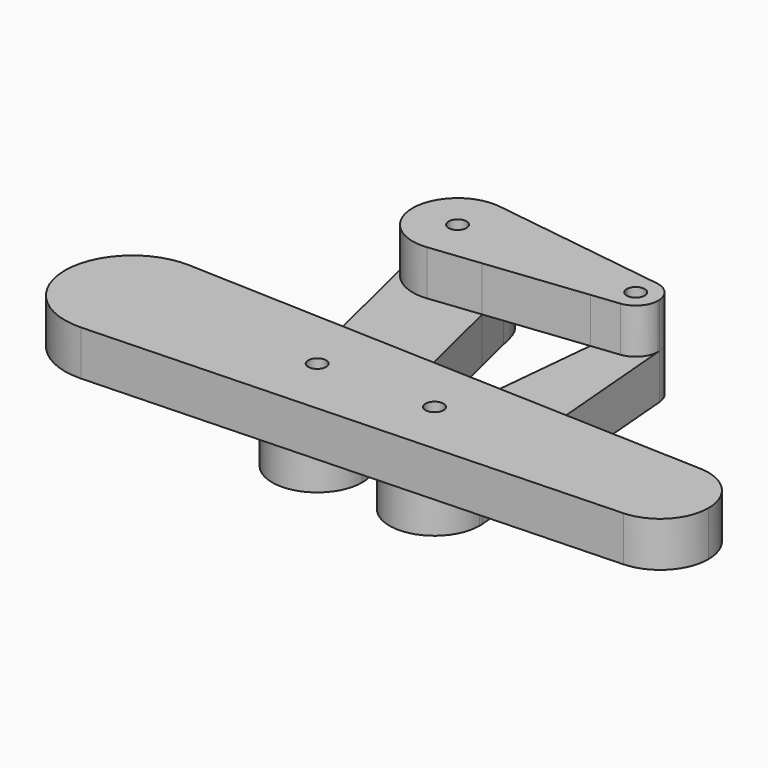
from build123d import *

# Parameters (mm, degrees)
F1_DEPTH = 5
F0_R     = 1
F2_DEPTH = 5


with BuildPart() as f1:
    # F0 (on Top) → F1 (new body)
    with BuildSketch(Plane.XY):
        with BuildLine():
            ThreePointArc((-15.854500332, 23.0355131938), (-12.7077701873, 24.6473721814), (-11.4138670862, 27.9376327737))
            ThreePointArc((-11.4138670862, 27.9376327737), (-11.4135349787, 27.9709033455), (-11.4134242746, 28.0041753906))
            ThreePointArc((-11.4134242746, 28.0041753906), (-11.4488005891, 28.5979023154), (-11.5544289391, 29.1832276921))
            ThreePointArc((-11.5544289391, 29.1832276921), (-13.057928846, 31.7110137238), (-15.72245892, 32.9562019333))
            ThreePointArc((-15.72245892, 32.9562019333), (-20.1202626078, 31.3596708193), (-21.2724196101, 26.8251230892))
            ThreePointArc((-21.2724196101, 26.8251230892), (-19.279246894, 23.9069738196), (-15.854500332, 23.0355131938))
        make_face()
        with BuildLine():
            ThreePointArc((-15.4134242746, 28.0041753906), (-15.4134464154, 27.9975209816), (-15.4135128369, 27.9908668673))
            ThreePointArc((-15.4135128369, 27.9908668673), (-17.4134021338, 28.0108297997), (-15.4134242746, 28.0041753906))
        make_face(mode=Mode.SUBTRACT)
        with BuildLine():
            Line((-11.5544289391, 29.1832276921), (-11.2516570719, 27.9354738067))
            Line((-11.2516570719, 27.9354738067), (1.0763007318, 27.7713923605))
            Line((1.0763007318, 27.7713923605), (1.0964932824, 27.9794741519))
            ThreePointArc((1.0964932824, 27.9794741519), (2.036829904, 29.7011082607), (3.9302871563, 30.2140181942))
            Line((3.9302871563, 30.2140181942), (-15.72245892, 32.9562019333))
            ThreePointArc((-15.72245892, 32.9562019333), (-13.057928846, 31.7110137238), (-11.5544289391, 29.1832276921))
        make_face()
        with BuildLine():
            ThreePointArc((1.0964932824, 27.9794741519), (1.0885880353, 27.875494799), (1.0850258848, 27.7712762313))
            ThreePointArc((1.0850258848, 27.7712762313), (1.9064028744, 25.8851778792), (3.8642664503, 25.2536738244))
            ThreePointArc((3.8642664503, 25.2536738244), (5.4487592704, 26.0719699485), (6.084804479, 27.7380049229))
            ThreePointArc((6.084804479, 27.7380049229), (6.0826053348, 27.842842344), (6.0760117711, 27.9474953231))
            ThreePointArc((6.0760117711, 27.9474953231), (5.400288981, 29.4567300385), (3.9302871563, 30.2140181942))
            ThreePointArc((3.9302871563, 30.2140181942), (2.036829904, 29.7011082607), (1.0964932824, 27.9794741519))
        make_face()
        with BuildLine():
            ThreePointArc((4.584804479, 27.7380049229), (3.57815007, 26.7380270637), (2.5848930414, 27.7513134463))
            ThreePointArc((2.5848930414, 27.7513134463), (3.5914588881, 28.737982782), (4.584804479, 27.7380049229))
        make_face(mode=Mode.SUBTRACT)
        with BuildLine():
            Line((1.0850258848, 27.7712762313), (1.0763007318, 27.7713923605))
            Line((1.0763007318, 27.7713923605), (0.7985114663, 24.9088075818))
            Line((0.7985114663, 24.9088075818), (3.8642664503, 25.2536738244))
            ThreePointArc((3.8642664503, 25.2536738244), (1.9064028744, 25.8851778792), (1.0850258848, 27.7712762313))
        make_face()
        Polygon((1.0763007318, 27.7713923605), (-11.2516570719, 27.9354738067), (-10.2165579676, 23.6697243455), (0.7985114663, 24.9088075818), align=None)
        with BuildLine():
            Line((-11.2516570719, 27.9354738067), (-11.4138670862, 27.9376327737))
            ThreePointArc((-11.4138670862, 27.9376327737), (-12.7077701873, 24.6473721814), (-15.854500332, 23.0355131938))
            Line((-15.854500332, 23.0355131938), (-10.2165579676, 23.6697243455))
            Line((-10.2165579676, 23.6697243455), (-11.2516570719, 27.9354738067))
        make_face()
        with BuildLine():
            ThreePointArc((-11.4134242746, 28.0041753906), (-11.4135349787, 27.9709033455), (-11.4138670862, 27.9376327737))
            Line((-11.4138670862, 27.9376327737), (-11.2516570719, 27.9354738067))
            Line((-11.2516570719, 27.9354738067), (-11.5544289391, 29.1832276921))
            ThreePointArc((-11.5544289391, 29.1832276921), (-11.4488005891, 28.5979023154), (-11.4134242746, 28.0041753906))
        make_face()
        with BuildLine():
            Line((1.0964932824, 27.9794741519), (1.0763007318, 27.7713923605))
            Line((1.0763007318, 27.7713923605), (1.0850258848, 27.7712762313))
            ThreePointArc((1.0850258848, 27.7712762313), (1.0885880353, 27.875494799), (1.0964932824, 27.9794741519))
        make_face()
    extrude(amount=F1_DEPTH)


with BuildPart() as f1b:
    # F0 (on Top) → F1, piece 2 (new body)
    with BuildSketch(Plane.XY):
        with BuildLine():
            ThreePointArc((-22.6505047828, 0.0204806253), (-24.751195421, 5.2260025411), (-29.8764936936, 7.5154734821))
            ThreePointArc((-29.8764936936, 7.5154734821), (-37.6505047828, 0.0204806253), (-29.8764936936, -7.4745122315))
            ThreePointArc((-29.8764936936, -7.4745122315), (-24.751195421, -5.1850412904), (-22.6505047828, 0.0204806253))
        make_face()
        with BuildLine():
            Line((-0.9918379888, 6.4594730131), (-6.0856180335, 6.645697636))
            Line((-6.0856180335, 6.645697636), (-4.7640870192, 1.1995329267))
            ThreePointArc((-4.7640870192, 1.1995329267), (-4.6584586692, 0.6142075501), (-4.6230823547, 0.0204806253))
            ThreePointArc((-4.6230823547, 0.0204806253), (-9.0293554299, -4.9441430602), (-14.4820776902, -1.1585716761))
            Line((-14.4820776902, -1.1585716761), (-16.467914748, 7.0252663008))
            Line((-16.467914748, 7.0252663008), (-29.8764936936, 7.5154734821))
            ThreePointArc((-29.8764936936, 7.5154734821), (-24.751195421, 5.2260025411), (-22.6505047828, 0.0204806253))
            ThreePointArc((-22.6505047828, 0.0204806253), (-24.751195421, -5.1850412904), (-29.8764936936, -7.4745122315))
            Line((-29.8764936936, -7.4745122315), (28.6700100147, -5.3340977497))
            ThreePointArc((28.6700100147, -5.3340977497), (23.1160952264, 0.0204806253), (28.6700100147, 5.3750590003))
            Line((28.6700100147, 5.3750590003), (7.9103490939, 6.1340160013))
            Line((7.9103490939, 6.1340160013), (8.3892151125, 0.4394614259))
            ThreePointArc((8.3892151125, 0.4394614259), (8.4024022398, 0.2301554677), (8.4068005283, 0.0204806253))
            ThreePointArc((8.4068005283, 0.0204806253), (3.1650485547, -4.9736715533), (-1.5698218651, 0.5034190834))
            Line((-1.5698218651, 0.5034190834), (-0.9918379888, 6.4594730131))
        make_face()
        with BuildLine():
            ThreePointArc((33.8324063903, 0.0204806253), (32.3316294211, 3.7394134666), (28.6700100147, 5.3750590003))
            ThreePointArc((28.6700100147, 5.3750590003), (23.1160952264, 0.0204806253), (28.6700100147, -5.3340977497))
            ThreePointArc((28.6700100147, -5.3340977497), (32.3316294211, -3.698452216), (33.8324063903, 0.0204806253))
        make_face()
        with BuildLine():
            Line((7.9103490939, 6.1340160013), (-0.9918379888, 6.4594730131))
            Line((-0.9918379888, 6.4594730131), (-1.5698218651, 0.5034190834))
            ThreePointArc((-1.5698218651, 0.5034190834), (3.4389102287, 5.020377521), (8.3892151125, 0.4394614259))
            Line((8.3892151125, 0.4394614259), (7.9103490939, 6.1340160013))
        make_face()
        with BuildLine():
            ThreePointArc((8.3892151125, 0.4394614259), (3.4389102287, 5.020377521), (-1.5698218651, 0.5034190834))
            ThreePointArc((-1.5698218651, 0.5034190834), (3.1650485547, -4.9736715533), (8.4068005283, 0.0204806253))
            ThreePointArc((8.4068005283, 0.0204806253), (8.4024022398, 0.2301554677), (8.3892151125, 0.4394614259))
        make_face()
        with Locations((3.4068005283, 0.0204806253)):
            Circle(F0_R, mode=Mode.SUBTRACT)
        with BuildLine():
            ThreePointArc((-4.6230823547, 0.0204806253), (-4.6584586692, 0.6142075501), (-4.7640870192, 1.1995329267))
            ThreePointArc((-4.7640870192, 1.1995329267), (-10.8021346561, 4.8794759608), (-14.4820776902, -1.1585716761))
            ThreePointArc((-14.4820776902, -1.1585716761), (-9.0293554299, -4.9441430602), (-4.6230823547, 0.0204806253))
        make_face()
        with Locations((-9.6230823547, 0.0204806253)):
            Circle(F0_R, mode=Mode.SUBTRACT)
        with BuildLine():
            Line((-4.7640870192, 1.1995329267), (-6.0856180335, 6.645697636))
            Line((-6.0856180335, 6.645697636), (-16.467914748, 7.0252663008))
            Line((-16.467914748, 7.0252663008), (-14.4820776902, -1.1585716761))
            ThreePointArc((-14.4820776902, -1.1585716761), (-10.8021346561, 4.8794759608), (-4.7640870192, 1.1995329267))
        make_face()
    extrude(amount=F1_DEPTH)


with BuildPart() as f2:
    # F0 (on Top) → F2 (new body)
    with BuildSketch(Plane.XY):
        with BuildLine():
            ThreePointArc((-15.854500332, 23.0355131938), (-12.7077701873, 24.6473721814), (-11.4138670862, 27.9376327737))
            ThreePointArc((-11.4138670862, 27.9376327737), (-11.4135349787, 27.9709033455), (-11.4134242746, 28.0041753906))
            ThreePointArc((-11.4134242746, 28.0041753906), (-11.4488005891, 28.5979023154), (-11.5544289391, 29.1832276921))
            ThreePointArc((-11.5544289391, 29.1832276921), (-13.057928846, 31.7110137238), (-15.72245892, 32.9562019333))
            ThreePointArc((-15.72245892, 32.9562019333), (-20.1202626078, 31.3596708193), (-21.2724196101, 26.8251230892))
            ThreePointArc((-21.2724196101, 26.8251230892), (-19.279246894, 23.9069738196), (-15.854500332, 23.0355131938))
        make_face()
        with BuildLine():
            ThreePointArc((-15.4134242746, 28.0041753906), (-15.4134464154, 27.9975209816), (-15.4135128369, 27.9908668673))
            ThreePointArc((-15.4135128369, 27.9908668673), (-17.4134021338, 28.0108297997), (-15.4134242746, 28.0041753906))
        make_face(mode=Mode.SUBTRACT)
        with BuildLine():
            ThreePointArc((-11.4134242746, 28.0041753906), (-11.4135349787, 27.9709033455), (-11.4138670862, 27.9376327737))
            Line((-11.4138670862, 27.9376327737), (-11.2516570719, 27.9354738067))
            Line((-11.2516570719, 27.9354738067), (-11.5544289391, 29.1832276921))
            ThreePointArc((-11.5544289391, 29.1832276921), (-11.4488005891, 28.5979023154), (-11.4134242746, 28.0041753906))
        make_face()
        with BuildLine():
            Line((-11.2516570719, 27.9354738067), (-11.4138670862, 27.9376327737))
            ThreePointArc((-11.4138670862, 27.9376327737), (-12.7077701873, 24.6473721814), (-15.854500332, 23.0355131938))
            Line((-15.854500332, 23.0355131938), (-10.2165579676, 23.6697243455))
            Line((-10.2165579676, 23.6697243455), (-11.2516570719, 27.9354738067))
        make_face()
        with BuildLine():
            Line((-10.2165579676, 23.6697243455), (-15.854500332, 23.0355131938))
            ThreePointArc((-15.854500332, 23.0355131938), (-19.279246894, 23.9069738196), (-21.2724196101, 26.8251230892))
            Line((-21.2724196101, 26.8251230892), (-16.467914748, 7.0252663008))
            Line((-16.467914748, 7.0252663008), (-6.0856180335, 6.645697636))
            Line((-6.0856180335, 6.645697636), (-10.2165579676, 23.6697243455))
        make_face()
        with BuildLine():
            Line((-4.7640870192, 1.1995329267), (-6.0856180335, 6.645697636))
            Line((-6.0856180335, 6.645697636), (-16.467914748, 7.0252663008))
            Line((-16.467914748, 7.0252663008), (-14.4820776902, -1.1585716761))
            ThreePointArc((-14.4820776902, -1.1585716761), (-10.8021346561, 4.8794759608), (-4.7640870192, 1.1995329267))
        make_face()
        with BuildLine():
            ThreePointArc((-4.6230823547, 0.0204806253), (-4.6584586692, 0.6142075501), (-4.7640870192, 1.1995329267))
            ThreePointArc((-4.7640870192, 1.1995329267), (-10.8021346561, 4.8794759608), (-14.4820776902, -1.1585716761))
            ThreePointArc((-14.4820776902, -1.1585716761), (-9.0293554299, -4.9441430602), (-4.6230823547, 0.0204806253))
        make_face()
        with Locations((-9.6230823547, 0.0204806253)):
            Circle(F0_R, mode=Mode.SUBTRACT)
    extrude(amount=-F2_DEPTH)


with BuildPart() as f2b:
    # F0 (on Top) → F2, piece 2 (new body)
    with BuildSketch(Plane.XY):
        with BuildLine():
            ThreePointArc((8.3892151125, 0.4394614259), (3.4389102287, 5.020377521), (-1.5698218651, 0.5034190834))
            ThreePointArc((-1.5698218651, 0.5034190834), (3.1650485547, -4.9736715533), (8.4068005283, 0.0204806253))
            ThreePointArc((8.4068005283, 0.0204806253), (8.4024022398, 0.2301554677), (8.3892151125, 0.4394614259))
        make_face()
        with Locations((3.4068005283, 0.0204806253)):
            Circle(F0_R, mode=Mode.SUBTRACT)
        with BuildLine():
            Line((7.9103490939, 6.1340160013), (-0.9918379888, 6.4594730131))
            Line((-0.9918379888, 6.4594730131), (-1.5698218651, 0.5034190834))
            ThreePointArc((-1.5698218651, 0.5034190834), (3.4389102287, 5.020377521), (8.3892151125, 0.4394614259))
            Line((8.3892151125, 0.4394614259), (7.9103490939, 6.1340160013))
        make_face()
        with BuildLine():
            Line((3.8642664503, 25.2536738244), (0.7985114663, 24.9088075818))
            Line((0.7985114663, 24.9088075818), (-0.9918379888, 6.4594730131))
            Line((-0.9918379888, 6.4594730131), (7.9103490939, 6.1340160013))
            Line((7.9103490939, 6.1340160013), (6.0760117711, 27.9474953231))
            ThreePointArc((6.0760117711, 27.9474953231), (6.0826053348, 27.842842344), (6.084804479, 27.7380049229))
            ThreePointArc((6.084804479, 27.7380049229), (5.4487592704, 26.0719699485), (3.8642664503, 25.2536738244))
        make_face()
        with BuildLine():
            Line((1.0850258848, 27.7712762313), (1.0763007318, 27.7713923605))
            Line((1.0763007318, 27.7713923605), (0.7985114663, 24.9088075818))
            Line((0.7985114663, 24.9088075818), (3.8642664503, 25.2536738244))
            ThreePointArc((3.8642664503, 25.2536738244), (1.9064028744, 25.8851778792), (1.0850258848, 27.7712762313))
        make_face()
        with BuildLine():
            ThreePointArc((1.0964932824, 27.9794741519), (1.0885880353, 27.875494799), (1.0850258848, 27.7712762313))
            ThreePointArc((1.0850258848, 27.7712762313), (1.9064028744, 25.8851778792), (3.8642664503, 25.2536738244))
            ThreePointArc((3.8642664503, 25.2536738244), (5.4487592704, 26.0719699485), (6.084804479, 27.7380049229))
            ThreePointArc((6.084804479, 27.7380049229), (6.0826053348, 27.842842344), (6.0760117711, 27.9474953231))
            ThreePointArc((6.0760117711, 27.9474953231), (5.400288981, 29.4567300385), (3.9302871563, 30.2140181942))
            ThreePointArc((3.9302871563, 30.2140181942), (2.036829904, 29.7011082607), (1.0964932824, 27.9794741519))
        make_face()
        with BuildLine():
            ThreePointArc((4.584804479, 27.7380049229), (3.57815007, 26.7380270637), (2.5848930414, 27.7513134463))
            ThreePointArc((2.5848930414, 27.7513134463), (3.5914588881, 28.737982782), (4.584804479, 27.7380049229))
        make_face(mode=Mode.SUBTRACT)
        with BuildLine():
            Line((1.0964932824, 27.9794741519), (1.0763007318, 27.7713923605))
            Line((1.0763007318, 27.7713923605), (1.0850258848, 27.7712762313))
            ThreePointArc((1.0850258848, 27.7712762313), (1.0885880353, 27.875494799), (1.0964932824, 27.9794741519))
        make_face()
    extrude(amount=-F2_DEPTH)


solid = Compound([f1.part, f1b.part, f2.part, f2b.part])
